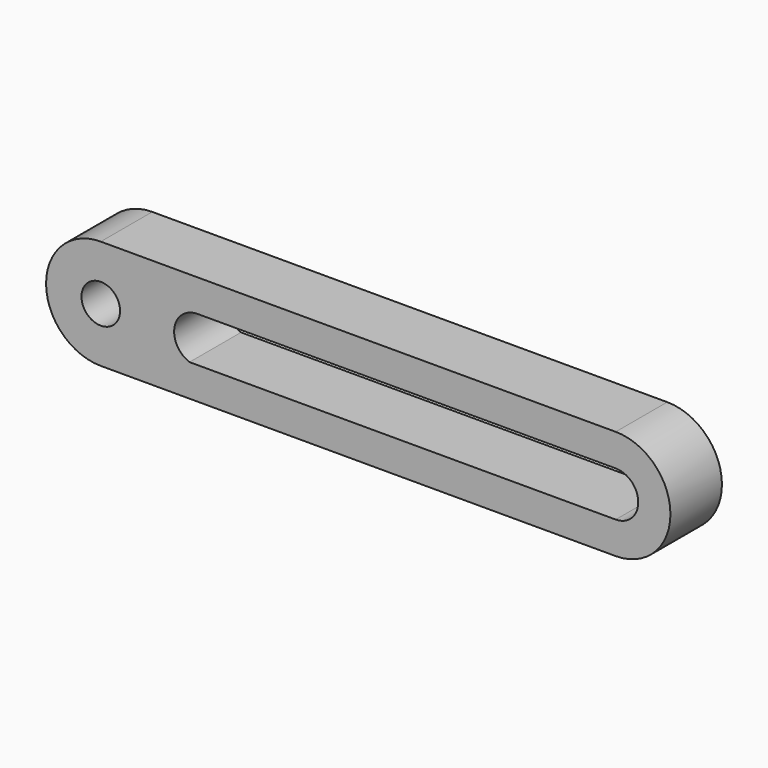
from build123d import *

# Parameters (mm, degrees)
F0_R     = 6
F1_DEPTH = 20


with BuildPart() as f1:
    # F0 (on Front) → F1 (new body)
    with BuildSketch(Plane.XZ):
        with BuildLine():
            Line((160, 34), (0, 34))
            ThreePointArc((0, 34), (-17, 17), (0, 0))
            Line((0, 0), (160, 0))
            ThreePointArc((160, 0), (177, 17), (160, 34))
        make_face()
        with Locations((0, 17)):
            Circle(F0_R, mode=Mode.SUBTRACT)
        with BuildLine():
            ThreePointArc((27.565688, 10), (22.894969, 18.02378), (30, 24))
            Line((30, 24), (160, 24))
            ThreePointArc((160, 24), (167, 17), (160, 10))
            Line((160, 10), (27.565688, 10))
        make_face(mode=Mode.SUBTRACT)
    extrude(amount=F1_DEPTH)


solid = f1.part
